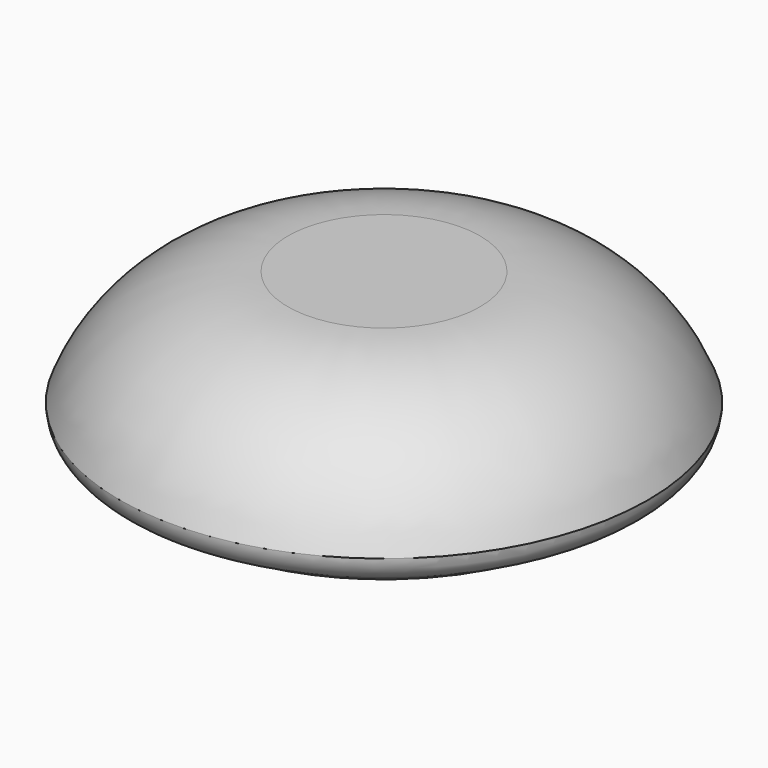
from build123d import *


with BuildPart() as f1:
    # F0 (on Front) → F1 (revolve)
    with BuildSketch(Plane.XZ):
        with BuildLine():
            Line((8, 0), (0, 0))
            Line((0, 0), (0, -12))
            Line((0, -12), (19.502639, -12))
            ThreePointArc((19.502639, -12), (20.119243, -11.922767), (20.69775, -11.695839))
            ThreePointArc((20.69775, -11.695839), (21.621891, -10.826186), (22, -9.614835))
            ThreePointArc((22, -9.614835), (16.491835, -2.635182), (8, 0))
        make_face()
        with BuildLine():
            Line((19.502639, -12), (0, -12))
            Line((0, -12), (0, -15))
            Line((0, -15), (11.21712, -15))
            ThreePointArc((11.21712, -15), (15.155191, -14.425012), (18.76446, -12.748054))
            Line((18.76446, -12.748054), (20.69775, -11.695839))
            ThreePointArc((20.69775, -11.695839), (20.119243, -11.922767), (19.502639, -12))
        make_face()
    revolve(axis=Axis((0, 0, -7.5), (0, 0, 1)))


solid = f1.part
